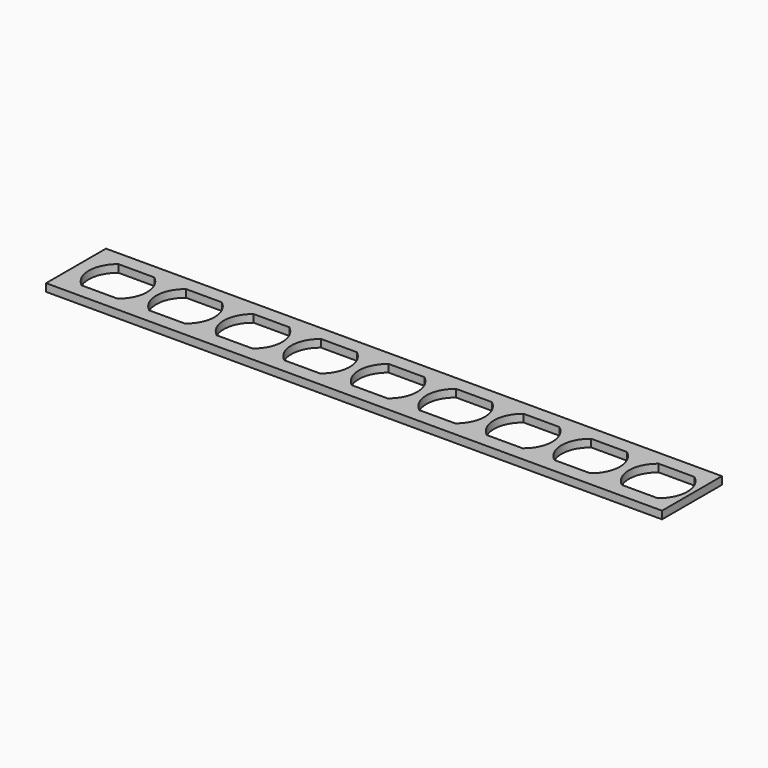
from build123d import *

# Parameters (mm, degrees)
F0_W     = 200.665613
F0_H     = 24.384
F1_DEPTH = 2.5


with BuildPart() as f1:
    # F0 (on Top) → F1 (new body)
    with BuildSketch(Plane.XY):
        with Locations((86.667197, 0)):
            Rectangle(F0_W, F0_H)
        with BuildLine():
            ThreePointArc((-5.830952, -7.5), (-9.5, 0), (-5.830952, 7.5))
            Line((-5.830952, 7.5), (5.830952, 7.5))
            ThreePointArc((5.830952, 7.5), (9.5, 0), (5.830952, -7.5))
            Line((5.830952, -7.5), (-5.830952, -7.5))
        make_face(mode=Mode.SUBTRACT)
        with BuildLine():
            ThreePointArc((16.169048, -7.5), (12.5, 0), (16.169048, 7.5))
            Line((16.169048, 7.5), (27.830952, 7.5))
            ThreePointArc((27.830952, 7.5), (31.5, 0), (27.830952, -7.5))
            Line((27.830952, -7.5), (16.169048, -7.5))
        make_face(mode=Mode.SUBTRACT)
        with BuildLine():
            ThreePointArc((38.169048, -7.5), (34.5, 0), (38.169048, 7.5))
            Line((38.169048, 7.5), (49.830952, 7.5))
            ThreePointArc((49.830952, 7.5), (53.5, 0), (49.830952, -7.5))
            Line((49.830952, -7.5), (38.169048, -7.5))
        make_face(mode=Mode.SUBTRACT)
        with BuildLine():
            ThreePointArc((60.169048, -7.5), (56.5, 0), (60.169048, 7.5))
            Line((60.169048, 7.5), (71.830952, 7.5))
            ThreePointArc((71.830952, 7.5), (75.5, 0), (71.830952, -7.5))
            Line((71.830952, -7.5), (60.169048, -7.5))
        make_face(mode=Mode.SUBTRACT)
        with BuildLine():
            ThreePointArc((82.169048, -7.5), (78.5, 0), (82.169048, 7.5))
            Line((82.169048, 7.5), (93.830952, 7.5))
            ThreePointArc((93.830952, 7.5), (97.5, 0), (93.830952, -7.5))
            Line((93.830952, -7.5), (82.169048, -7.5))
        make_face(mode=Mode.SUBTRACT)
        with BuildLine():
            ThreePointArc((104.169048, -7.5), (100.5, 0), (104.169048, 7.5))
            Line((104.169048, 7.5), (115.830952, 7.5))
            ThreePointArc((115.830952, 7.5), (119.5, 0), (115.830952, -7.5))
            Line((115.830952, -7.5), (104.169048, -7.5))
        make_face(mode=Mode.SUBTRACT)
        with BuildLine():
            ThreePointArc((126.169048, -7.5), (122.5, 0), (126.169048, 7.5))
            Line((126.169048, 7.5), (137.830952, 7.5))
            ThreePointArc((137.830952, 7.5), (141.5, 0), (137.830952, -7.5))
            Line((137.830952, -7.5), (126.169048, -7.5))
        make_face(mode=Mode.SUBTRACT)
        with BuildLine():
            ThreePointArc((148.169048, -7.5), (144.5, 0), (148.169048, 7.5))
            Line((148.169048, 7.5), (159.830952, 7.5))
            ThreePointArc((159.830952, 7.5), (163.5, 0), (159.830952, -7.5))
            Line((159.830952, -7.5), (148.169048, -7.5))
        make_face(mode=Mode.SUBTRACT)
        with BuildLine():
            ThreePointArc((170.169048, -7.5), (166.5, 0), (170.169048, 7.5))
            Line((170.169048, 7.5), (181.830952, 7.5))
            ThreePointArc((181.830952, 7.5), (185.5, 0), (181.830952, -7.5))
            Line((181.830952, -7.5), (170.169048, -7.5))
        make_face(mode=Mode.SUBTRACT)
    extrude(amount=F1_DEPTH)


solid = f1.part
